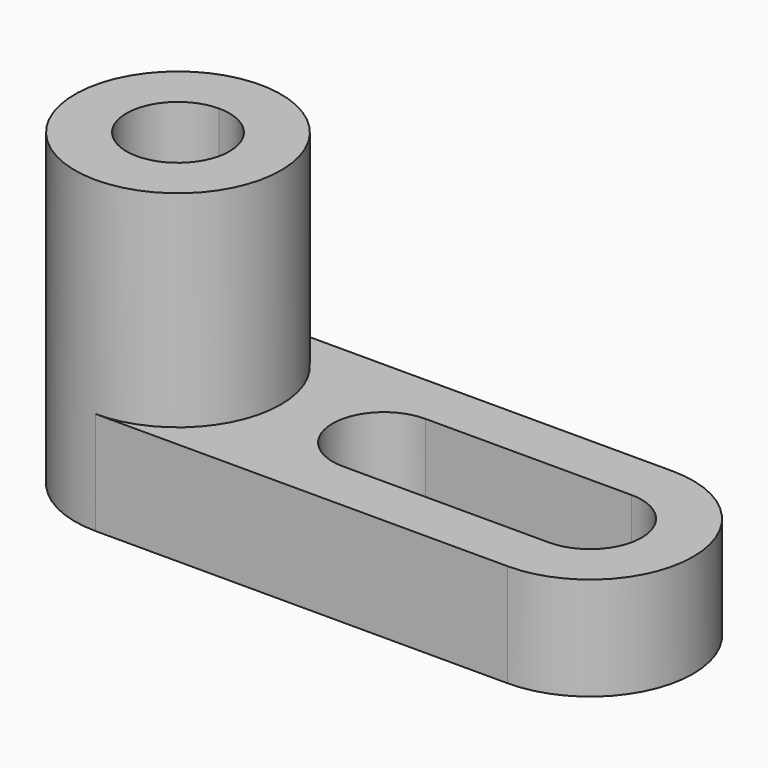
from build123d import *

# Parameters (mm, degrees)
F1_DEPTH = 38.1
F2_DEPTH = 12.7


with BuildPart() as f1:
    # F0 (on Top) → F1 (new body)
    with BuildSketch(Plane.XY):
        with BuildLine():
            ThreePointArc((0, 25.4), (-12.7, 12.7), (0, 0))
            Line((0, 0), (0, 6.35))
            ThreePointArc((0, 6.35), (-6.35, 12.7), (0, 19.05))
            Line((0, 19.05), (0, 25.4))
        make_face()
        with BuildLine():
            Line((0, 6.35), (0, 0))
            ThreePointArc((0, 0), (12.7, 12.7), (0, 25.4))
            Line((0, 25.4), (0, 19.05))
            ThreePointArc((0, 19.05), (4.490128, 17.190128), (6.35, 12.7))
            ThreePointArc((6.35, 12.7), (4.490128, 8.209872), (0, 6.35))
        make_face()
    extrude(amount=F1_DEPTH)

    # F0 (on Top) → F2 (join)
    with BuildSketch(Plane.XY):
        with BuildLine():
            ThreePointArc((0, 25.4), (12.7, 12.7), (0, 0))
            Line((0, 0), (50.8, 0))
            Line((50.8, 0), (50.8, 6.35))
            Line((50.8, 6.35), (25.4, 6.35))
            ThreePointArc((25.4, 6.35), (19.05, 12.7), (25.4, 19.05))
            Line((25.4, 19.05), (50.8, 19.05))
            Line((50.8, 19.05), (50.8, 25.4))
            Line((50.8, 25.4), (0, 25.4))
        make_face()
        with BuildLine():
            Line((50.8, 6.35), (50.8, 0))
            ThreePointArc((50.8, 0), (63.5, 12.7), (50.8, 25.4))
            Line((50.8, 25.4), (50.8, 19.05))
            ThreePointArc((50.8, 19.05), (57.15, 12.7), (50.8, 6.35))
        make_face()
    extrude(amount=F2_DEPTH)


solid = f1.part
